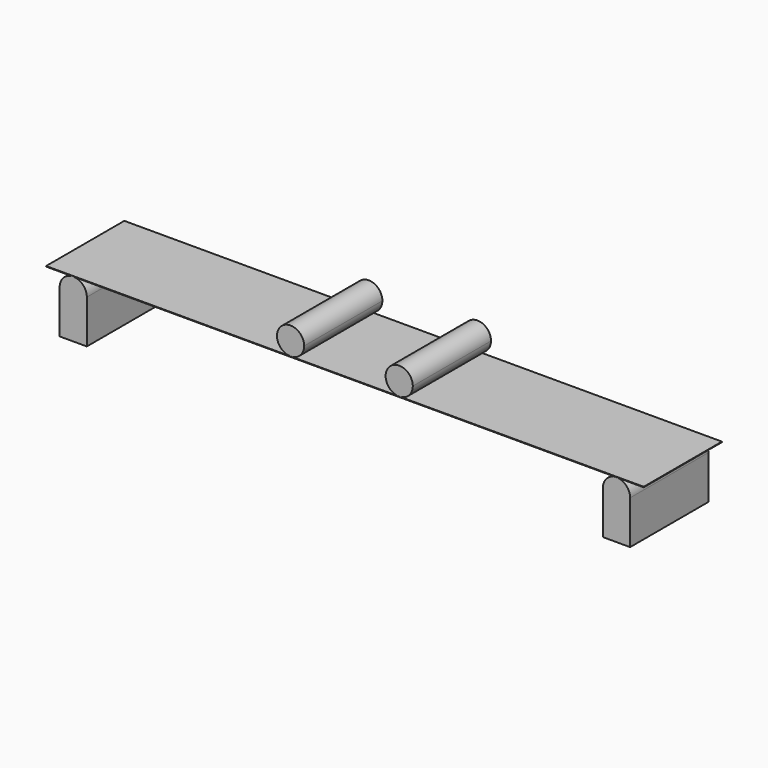
from build123d import *

# Parameters (mm, degrees)
F1_DEPTH = 180
F2_DEPTH = 180


with BuildPart() as f1:
    # F0 (on Front) → F1 (new body)
    with BuildSketch(Plane.XZ):
        Polygon((0, 1), (0, 0), (50, 0), (1050, 0), (1100, 0), (1100, 1), (650, 1), (450, 1), align=None)
    extrude(amount=F1_DEPTH)


with BuildPart() as f2:
    # F0 (on Front) → F2 (new body)
    with BuildSketch(Plane.XZ):
        with BuildLine():
            ThreePointArc((75, -25), (67.67767, -7.32233), (50, 0))
            ThreePointArc((50, 0), (32.32233, -7.32233), (25, -25))
            Line((25, -25), (25, -105))
            Line((25, -105), (75, -105))
            Line((75, -105), (75, -25))
        make_face()
        with BuildLine():
            ThreePointArc((425, 26), (432.32233, 8.32233), (450, 1))
            ThreePointArc((450, 1), (467.67767, 8.32233), (475, 26))
            ThreePointArc((475, 26), (450, 51), (425, 26))
        make_face()
        with BuildLine():
            ThreePointArc((625, 26), (632.32233, 8.32233), (650, 1))
            ThreePointArc((650, 1), (667.67767, 8.32233), (675, 26))
            ThreePointArc((675, 26), (650, 51), (625, 26))
        make_face()
        with BuildLine():
            ThreePointArc((1075, -25), (1067.67767, -7.32233), (1050, 0))
            ThreePointArc((1050, 0), (1032.32233, -7.32233), (1025, -25))
            Line((1025, -25), (1025, -105))
            Line((1025, -105), (1075, -105))
            Line((1075, -105), (1075, -25))
        make_face()
    extrude(amount=F2_DEPTH)


solid = Compound([f1.part, f2.part])
